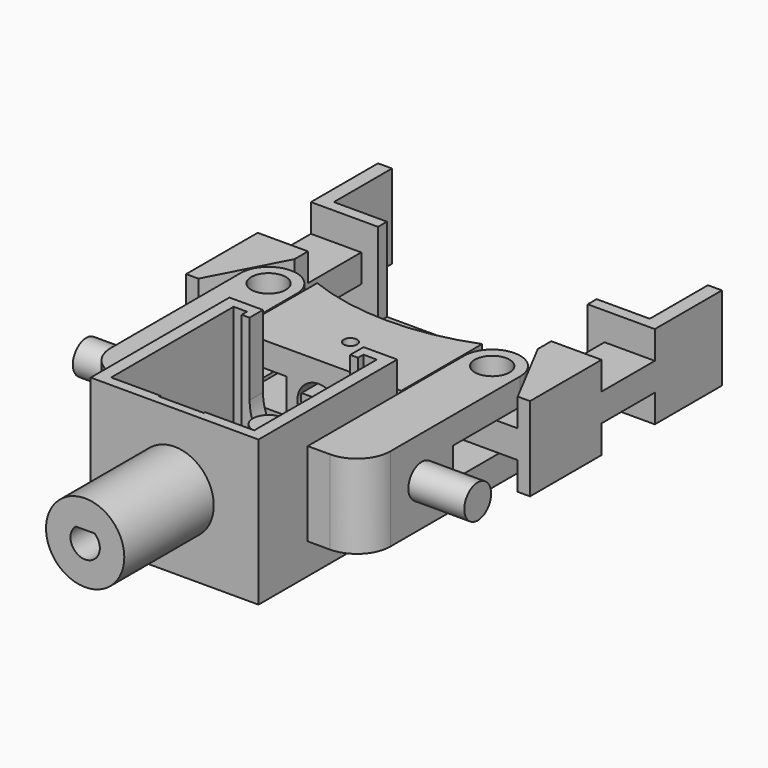
from build123d import *

# Parameters (mm, degrees)
CYLINDER_R        = 2.8
CYLINDER_DEPTH    = 15
CYLINDER001_R     = 2.8
CYLINDER001_DEPTH = 15
SKETCH_W          = 30
SKETCH_H          = 31
SKETCH_W_2        = 21
SKETCH_H_2        = 22.2
PAD_DEPTH         = 26
POCKET_DEPTH      = 24
POCKET001_DEPTH   = 5
POCKET002_DEPTH   = 0.3
SKETCH004_R       = 7
PAD001_DEPTH      = 20
POCKET003_DEPTH   = 19
SKETCH006_W       = 20
SKETCH006_H       = 15
PAD002_DEPTH      = 10
SKETCH007_W       = 20
SKETCH007_H       = 15
PAD003_DEPTH      = 10
SKETCH008_W       = 10
SKETCH008_H       = 4.8
PAD004_DEPTH      = 20
SKETCH009_R       = 3.1
POCKET004_DEPTH   = 20.5009992354
SKETCH010_R       = 3.1
POCKET005_DEPTH   = 20.5010129411
FILLET_R          = 4.99
FILLET006_R       = 6
SKETCH022_R       = 3
PAD011_DEPTH      = 10
SKETCH023_R       = 3
PAD012_DEPTH      = 10
SKETCH015_W       = 29.5
SKETCH015_H       = 11.5
PAD007_DEPTH      = 4.4
SKETCH016_R       = 2.3
PAD008_DEPTH      = 6.2
SKETCH017_W       = 29.5
SKETCH017_H       = 11.5
PAD009_DEPTH      = 4.4
SKETCH018_W       = 29.5
SKETCH018_H       = 15
PAD010_DEPTH      = 8.3
POCKET012_DEPTH   = 9.3
SKETCH020_R       = 3.8
POCKET013_DEPTH   = 1.8
SKETCH025_R       = 1.2
POCKET014_DEPTH   = 15.001
SKETCH031_W       = 9.0414225026
SKETCH031_H       = 6.2
POCKET015_DEPTH   = 8.301
SKETCH032_R       = 40.6586399182
POCKET016_DEPTH   = 15.0010001
PAD005_DEPTH      = 15
SKETCH012_W       = 37.5
SKETCH012_H       = 2
POCKET006_DEPTH   = 14.99
SKETCH013_W       = 28.25
SKETCH013_H       = 5
PAD006_DEPTH      = 27.9
SKETCH024_R       = 3
SKETCH024_W       = 19.25
SKETCH024_H       = 16.9
POCKET011_DEPTH   = 10.001
PAD013_DEPTH      = 5
PAD014_DEPTH      = 5
POCKET017_DEPTH   = 10.001
FILLET007_R       = 1
SKETCH035_W       = 13
SKETCH035_H       = 15
PAD015_DEPTH      = 0.5
SKETCH036_W       = 13
SKETCH036_H       = 15
PAD016_DEPTH      = 0.5


with BuildPart() as peg:
    # Cylinder → Cylinder (new body)
    with BuildSketch(Plane(origin=(0, -7, 0), x_dir=(1, 0, 0), z_dir=(0, 0, 1))):
        Circle(CYLINDER_R)
    extrude(amount=CYLINDER_DEPTH)


with BuildPart() as peg2:
    # Cylinder001 → Cylinder001 (new body)
    with BuildSketch(Plane(origin=(0, -15, 0), x_dir=(1, 0, 0), z_dir=(0, 0, 1))):
        Circle(CYLINDER001_R)
    extrude(amount=CYLINDER001_DEPTH)


with BuildPart() as bracket:
    # Sketch → Pad (new body)
    with BuildSketch(Plane.XY):
        with Locations((0, -12.5)):
            Rectangle(SKETCH_W, SKETCH_H)
        with Locations((0, -12.9)):
            Rectangle(SKETCH_W_2, SKETCH_H_2, mode=Mode.SUBTRACT)
    extrude(amount=PAD_DEPTH)

    # Sketch001 → Pocket (cut)
    with BuildSketch(Plane.XY.offset(26)):
        Polygon((12.8, 1.2), (12.8, -26.2), (-12.8, -26.2), (-12.8, 1.2), (-10.4, 1.2), (-10.4, 0), (10.4, 0), (10.4, 1.2), align=None)
    extrude(amount=-POCKET_DEPTH, mode=Mode.SUBTRACT)

    # Sketch003 → Pocket001 (cut)
    with BuildSketch(Plane(origin=(0, 3, 0), x_dir=(-1, 0, 0), z_dir=(0, 1, 0))):
        with BuildLine():
            Line((9, 12.9999992354), (9, 26))
            Line((9, 26), (-9, 26))
            Line((-9, 26), (-9, 13.0000129411))
            ThreePointArc((-9, 13.0000129411), (-6.8529e-06, 4), (9, 12.9999992354))
        make_face()
    extrude(amount=-POCKET001_DEPTH, mode=Mode.SUBTRACT)

    # Sketch002 → Pocket002 (cut)
    with BuildSketch(Plane(origin=(0, -26.2, 0), x_dir=(-1, 0, 0), z_dir=(0, 1, 0))):
        with BuildLine():
            Line((-4, 26), (-4, 13.0000000666))
            ThreePointArc((-4, 13.0000000666), (4.4667e-06, 9), (4, 13.000009))
            Line((4, 26), (4, 13.000009))
            Line((-4, 26), (4, 26))
        make_face()
    extrude(amount=-POCKET002_DEPTH, mode=Mode.SUBTRACT)

    # Sketch004 → Pad001 (new body)
    with BuildSketch(Plane.XZ.offset(28)):
        with Locations((0, 13)):
            Circle(SKETCH004_R)
    extrude(amount=PAD001_DEPTH)

    # Sketch005 → Pocket003 (cut)
    with BuildSketch(Plane.XZ.offset(48)):
        with BuildLine():
            Line((-1.6841912005, 15.02), (1.6841912005, 15.02))
            ThreePointArc((-1.6841912005, 15.02), (0, 10.37), (1.6841912005, 15.02))
        make_face()
    extrude(amount=-POCKET003_DEPTH, mode=Mode.SUBTRACT)

    # Sketch006 → Pad002 (new body)
    with BuildSketch(Plane.YZ.offset(15)):
        with Locations((-7, 12.9999992354)):
            Rectangle(SKETCH006_W, SKETCH006_H)
    extrude(amount=PAD002_DEPTH)

    # Sketch007 → Pad003 (new body)
    with BuildSketch(Plane(origin=(-15, 0, 0), x_dir=(0, -1, 0), z_dir=(-1, 0, 0))):
        with Locations((7, 13.0000129411)):
            Rectangle(SKETCH007_W, SKETCH007_H)
    extrude(amount=PAD003_DEPTH)

    # Sketch008 → Pad004 (new body)
    with BuildSketch(Plane(origin=(0, 3, 0), x_dir=(-1, 0, 0), z_dir=(0, 1, 0))):
        with Locations((-20, 18.0999992354)):
            Rectangle(SKETCH008_W, SKETCH008_H)
        with Locations((-20, 7.8999992354)):
            Rectangle(SKETCH008_W, SKETCH008_H)
        with Locations((20, 7.9000129411)):
            Rectangle(SKETCH008_W, SKETCH008_H)
        with Locations((20, 18.1000129411)):
            Rectangle(SKETCH008_W, SKETCH008_H)
    extrude(amount=PAD004_DEPTH)

    # Sketch009 → Pocket004 (cut, through all)
    with BuildSketch(Plane.XY.offset(20.4999992354)):
        with Locations((20, 18)):
            Circle(SKETCH009_R)
    extrude(amount=-POCKET004_DEPTH, mode=Mode.SUBTRACT)

    # Sketch010 → Pocket005 (cut, through all)
    with BuildSketch(Plane.XY.offset(20.5000129411)):
        with Locations((-20, 18)):
            Circle(SKETCH010_R)
    extrude(amount=-POCKET005_DEPTH, mode=Mode.SUBTRACT)

    # Fillet
    fillet_edges = [bracket.edges().sort_by_distance(p)[0] for p in [
        (-25, 23, 18.100013),
        (-25, 23, 7.900013),
        (-15, 23, 7.900013),
        (-15, 23, 18.100013),
        (15, 23, 7.899999),
        (15, 23, 18.099999),
        (25, 23, 7.899999),
        (25, 23, 18.099999),
    ]]
    fillet(fillet_edges, radius=FILLET_R)

    # Fillet006
    fillet006_edges = [bracket.edges().sort_by_distance(p)[0] for p in [
        (-25, -17, 13.000013),
        (25, -17, 12.999999),
    ]]
    fillet(fillet006_edges, radius=FILLET006_R)

    # Sketch022 → Pad011 (new body)
    with BuildSketch(Plane(origin=(-25, 0, 0), x_dir=(0, -1, 0), z_dir=(-1, 0, 0))):
        with Locations((4, 13)):
            Circle(SKETCH022_R)
    extrude(amount=PAD011_DEPTH)

    # Sketch023 → Pad012 (new body)
    with BuildSketch(Plane.YZ.offset(25)):
        with Locations((-4, 13)):
            Circle(SKETCH023_R)
    extrude(amount=PAD012_DEPTH)


with BuildPart() as obj1:
    # Sketch015 → Pad007 (new body)
    with BuildSketch(Plane.XY.offset(5.5)):
        with Locations((0, 18.25)):
            Rectangle(SKETCH015_W, SKETCH015_H)
    extrude(amount=PAD007_DEPTH)

    # Sketch016 → Pad008 (new body)
    with BuildSketch(Plane.XY.offset(9.9)):
        with Locations((-10.5, 18.5)):
            Circle(SKETCH016_R)
        with Locations((10.5, 18.5)):
            Circle(SKETCH016_R)
    extrude(amount=PAD008_DEPTH)

    # Sketch017 → Pad009 (new body)
    with BuildSketch(Plane.XY.offset(16.1)):
        with Locations((0, 18.25)):
            Rectangle(SKETCH017_W, SKETCH017_H)
    extrude(amount=PAD009_DEPTH)

    # Sketch018 → Pad010 (new body)
    with BuildSketch(Plane(origin=(0, 12.5, 5.5), x_dir=(1, 0, 0), z_dir=(0, -1, 0))):
        with Locations((0, 7.5)):
            Rectangle(SKETCH018_W, SKETCH018_H)
    extrude(amount=PAD010_DEPTH)

    # Sketch019 → Pocket012 (cut)
    with BuildSketch(Plane(origin=(0, 4.2, 5.5), x_dir=(1, 0, 0), z_dir=(0, -1, 0))):
        with BuildLine():
            Line((-3.7085774974, 8.3285245596), (3.7085774974, 8.3285245596))
            ThreePointArc((3.7085774974, 8.3285245596), (0, 11.3), (-3.7085774974, 8.3285245596))
        make_face()
        with BuildLine():
            Line((3.740203301, 6.8285245596), (-3.740203301, 6.8285245596))
            ThreePointArc((-3.740203301, 6.8285245596), (0, 3.7), (3.740203301, 6.8285245596))
        make_face()
    extrude(amount=-POCKET012_DEPTH, mode=Mode.SUBTRACT)

    # Sketch020 → Pocket013 (cut)
    with BuildSketch(Plane(origin=(0, 3.2, 5.5), x_dir=(1, 0, 0), z_dir=(0, -1, 0))):
        with Locations((0, 7.5)):
            Circle(SKETCH020_R)
    extrude(amount=-POCKET013_DEPTH, mode=Mode.SUBTRACT)

    # Sketch025 → Pocket014 (cut, through all)
    with BuildSketch(Plane.XY.offset(20.5)):
        with Locations((0, 11.3)):
            Circle(SKETCH025_R)
    extrude(amount=-POCKET014_DEPTH, mode=Mode.SUBTRACT)

    # Sketch031 → Pocket015 (cut, through all)
    with BuildSketch(Plane(origin=(0, 12.5, 5.5), x_dir=(-1, 0, 0), z_dir=(0, 1, 0))):
        with Locations((-10.2292887487, 7.5)):
            Rectangle(SKETCH031_W, SKETCH031_H)
        with Locations((10.2292887487, 7.5)):
            Rectangle(SKETCH031_W, SKETCH031_H)
    extrude(amount=-POCKET015_DEPTH, mode=Mode.SUBTRACT)

    # Sketch032 → Pocket016 (cut, through all)
    with BuildSketch(Plane.XY.offset(20.5)):
        with Locations((0, 60.2)):
            Circle(SKETCH032_R)
    extrude(amount=-POCKET016_DEPTH, mode=Mode.SUBTRACT)


with BuildPart() as feet:
    # Sketch011 → Pad005 (new body)
    with BuildSketch(Plane.XY.offset(5.5)):
        Polygon((-28.75, 55.9086399182), (-28.75, 42.9086399182), (28.75, 42.9086399182), (28.75, 55.9086399182), (30.75, 55.9086399182), (30.75, 40.9086399182), (-30.75, 40.9086399182), (-30.75, 55.9086399182), align=None)
    extrude(amount=PAD005_DEPTH)

    # Sketch012 → Pocket006 (cut)
    with BuildSketch(Plane.XY.offset(20.5)):
        with Locations((0, 41.9086399182)):
            Rectangle(SKETCH012_W, SKETCH012_H)
    extrude(amount=-POCKET006_DEPTH, mode=Mode.SUBTRACT)

    # Sketch013 → Pad006 (new body)
    with BuildSketch(Plane(origin=(0, 40.9086399182, 5.5), x_dir=(1, 0, 0), z_dir=(0, -1, 0))):
        with Locations((-16.625, 7.5)):
            Rectangle(SKETCH013_W, SKETCH013_H)
        with Locations((16.625, 7.5)):
            Rectangle(SKETCH013_W, SKETCH013_H)
    extrude(amount=PAD006_DEPTH)

    # Sketch024 → Pocket011 (cut, through all)
    with BuildSketch(Plane.XY.offset(15.5)):
        with Locations((-20, 18)):
            Circle(SKETCH024_R)
        with Locations((20, 18)):
            Circle(SKETCH024_R)
        with Locations((-12.125, 32.4586399182)):
            Rectangle(SKETCH024_W, SKETCH024_H)
        with Locations((12.125, 32.4586399182)):
            Rectangle(SKETCH024_W, SKETCH024_H)
        with BuildLine():
            Line((-2.5, 21.0086399182), (-10.500000694, 21.0086399182))
            ThreePointArc((-10.500000694, 21.0086399182), (-13.0000005123, 18.5086398434), (-10.5000005443, 16.0086399182))
            Line((-10.5000005443, 16.0086399182), (-2.5, 16.0086399182))
            Line((-2.5, 16.0086399182), (-2.5, 21.0086399182))
        make_face()
        with BuildLine():
            Line((2.5, 21.0086399182), (10.5000004162, 21.0086399182))
            ThreePointArc((10.5, 16.0086399182), (13.0000005123, 18.5086397101), (10.5000004162, 21.0086399182))
            Line((10.5, 16.0086399182), (2.5, 16.0086399182))
            Line((2.5, 16.0086399182), (2.5, 21.0086399182))
        make_face()
    extrude(amount=-POCKET011_DEPTH, mode=Mode.SUBTRACT)

    # Sketch027 → Pad013 (new body)
    with BuildSketch(Plane.XY.offset(15.5)):
        Polygon((-30.75, 29.0086399182), (-21.75, 29.0086399182), (-21.75, 26.0086399182), (-28.55, 13.0086399182), (-30.75, 13.0086399182), align=None)
        Polygon((30.75, 29.0086399182), (21.75, 29.0086399182), (21.75, 26.0086399182), (28.55, 13.0086399182), (30.75, 13.0086399182), align=None)
    extrude(amount=PAD013_DEPTH)

    # Sketch033 → Pad014 (new body)
    with BuildSketch(Plane(origin=(0, 0, 10.5), x_dir=(1, 0, 0), z_dir=(0, 0, -1))):
        Polygon((-30.75, -13.0086399182), (-28.55, -13.0086399182), (-21.75, -26.0086399182), (-21.75, -29.0086399182), (-30.75, -29.0086399182), align=None)
        Polygon((21.75, -26.0086399182), (28.55, -13.0086399182), (30.75, -13.0086399182), (30.75, -29.0086399182), (21.75, -29.0086399182), align=None)
    extrude(amount=PAD014_DEPTH)

    # Sketch034 → Pocket017 (cut, through all)
    with BuildSketch(Plane.XY.offset(15.5)):
        Polygon((-10, 24.0086399182), (-5, 21.0086399182), (-5, 13.0086399182), (5, 13.0086399182), (5, 21.0086399182), (10, 24.0086399182), align=None)
    extrude(amount=-POCKET017_DEPTH, mode=Mode.SUBTRACT)

    # Fillet007
    fillet007_edges = [feet.edges().sort_by_distance(p)[0] for p in [
        (5, 21.00864, 13),
        (-5, 21.00864, 13),
    ]]
    fillet(fillet007_edges, radius=FILLET007_R)

    # Sketch035 → Pad015 (new body)
    with BuildSketch(Plane(origin=(-28.75, 0, 5.5), x_dir=(0, 1, 0), z_dir=(1, 0, 0))):
        with Locations((49.4086399182, 7.5)):
            Rectangle(SKETCH035_W, SKETCH035_H)
    extrude(amount=PAD015_DEPTH)

    # Sketch036 → Pad016 (new body)
    with BuildSketch(Plane(origin=(28.75, 0, 5.5), x_dir=(0, -1, 0), z_dir=(-1, 0, 0))):
        with Locations((-49.4086399182, 7.5)):
            Rectangle(SKETCH036_W, SKETCH036_H)
    extrude(amount=PAD016_DEPTH)


solid = Compound([peg.part, peg2.part, bracket.part, obj1.part, feet.part])
